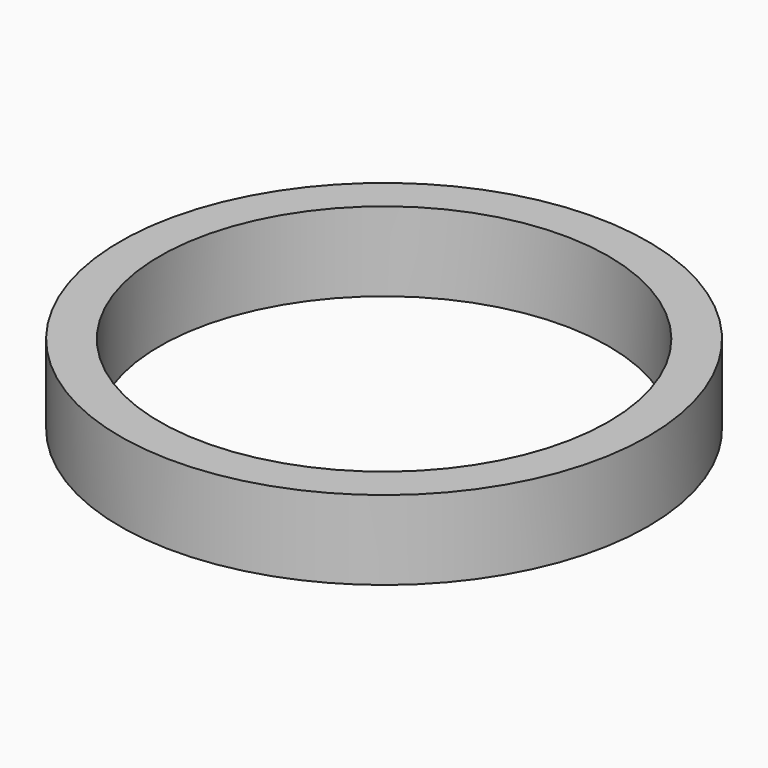
from build123d import *

# Parameters (mm, degrees)
SKETCH_R   = 10
SKETCH_R_2 = 8.5
PAD_DEPTH  = 3


with BuildPart() as part:
    # Sketch → Pad (new body)
    with BuildSketch(Plane.XY):
        Circle(SKETCH_R)
        Circle(SKETCH_R_2, mode=Mode.SUBTRACT)
    extrude(amount=PAD_DEPTH)


solid = part.part
